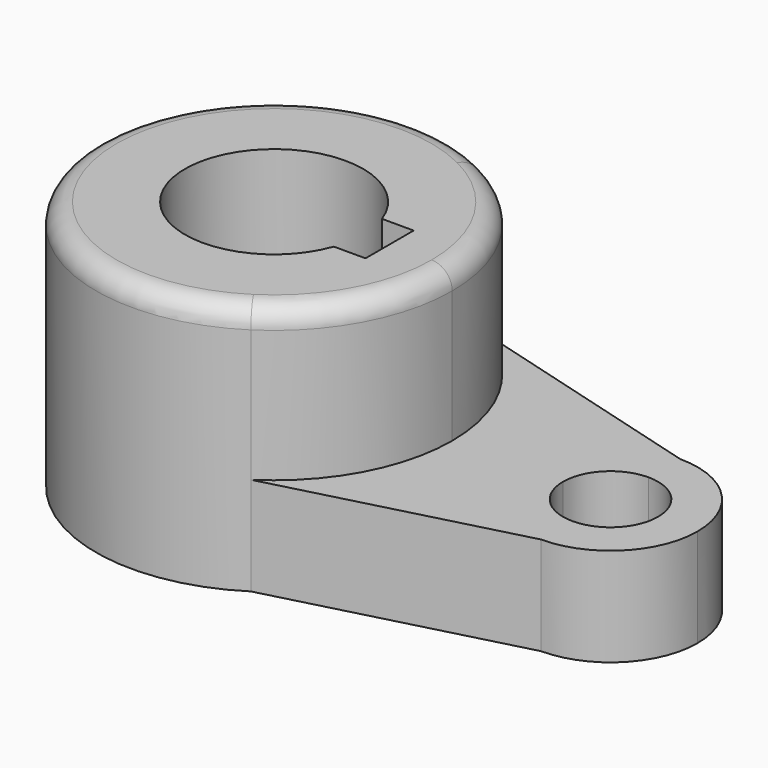
from build123d import *

# Parameters (mm, degrees)
F1_DEPTH = 40.2336
F2_DEPTH = 15.7734
F3_R     = 3.302


with BuildPart() as f1:
    # F0 (on Top) → F1 (new body)
    with BuildSketch(Plane.XY):
        with BuildLine():
            ThreePointArc((15.4849246273, -24.0155727453), (25.0899616005, -13.6756883515), (28.575, 0))
            ThreePointArc((28.575, 0), (24.3073468487, 15.0227665288), (12.7791284914, 25.5582569828))
            ThreePointArc((12.7791284914, 25.5582569828), (-28.532530963, -1.5573380643), (15.4849246273, -24.0155727453))
        make_face()
        with BuildLine():
            Line((18.5293, 4.826), (18.5293, 0))
            Line((18.5293, 0), (18.5293, -4.826))
            Line((18.5293, -4.826), (13.4477648793, -4.826))
            ThreePointArc((13.4477648793, -4.826), (-14.2875, 0), (13.4477648793, 4.826))
            Line((13.4477648793, 4.826), (18.5293, 4.826))
        make_face(mode=Mode.SUBTRACT)
    extrude(amount=F1_DEPTH)

    # F0 (on Top) → F2 (join)
    with BuildSketch(Plane.XY):
        with BuildLine():
            ThreePointArc((12.7791284914, 25.5582569828), (24.3073468487, 15.0227665288), (28.575, 0))
            Line((28.575, 0), (40.005, 0))
            ThreePointArc((40.005, 0), (44.0967182668, 9.8782817332), (53.975, 13.97))
            Line((53.975, 13.97), (12.7791284914, 25.5582569828))
        make_face()
        with BuildLine():
            Line((40.005, 0), (28.575, 0))
            ThreePointArc((28.575, 0), (25.0899616005, -13.6756883515), (15.4849246273, -24.0155727453))
            Line((15.4849246273, -24.0155727453), (53.975, -13.97))
            ThreePointArc((53.975, -13.97), (44.0967182668, -9.8782817332), (40.005, 0))
        make_face()
        with BuildLine():
            Line((46.355, 0), (40.005, 0))
            ThreePointArc((40.005, 0), (44.0967182668, -9.8782817332), (53.975, -13.97))
            Line((53.975, -13.97), (53.975, -7.62))
            ThreePointArc((53.975, -7.62), (48.5868463274, -5.3881536726), (46.355, 0))
        make_face()
        with BuildLine():
            ThreePointArc((53.975, 13.97), (44.0967182668, 9.8782817332), (40.005, 0))
            Line((40.005, 0), (46.355, 0))
            ThreePointArc((46.355, 0), (48.5868463274, 5.3881536726), (53.975, 7.62))
            Line((53.975, 7.62), (53.975, 13.97))
        make_face()
        with BuildLine():
            ThreePointArc((67.945, 0), (63.8532817332, 9.8782817332), (53.975, 13.97))
            Line((53.975, 13.97), (53.975, 7.62))
            ThreePointArc((53.975, 7.62), (59.3631536726, 5.3881536726), (61.595, 0))
            ThreePointArc((61.595, 0), (59.3631536726, -5.3881536726), (53.975, -7.62))
            Line((53.975, -7.62), (53.975, -13.97))
            ThreePointArc((53.975, -13.97), (63.8532817332, -9.8782817332), (67.945, 0))
        make_face()
    extrude(amount=F2_DEPTH)

    # F3
    f3_edges = [f1.edges().sort_by_distance(p)[0] for p in [
        (-15.484925, 24.015573, 40.2336),
    ]]
    fillet(f3_edges, radius=F3_R)


solid = f1.part
